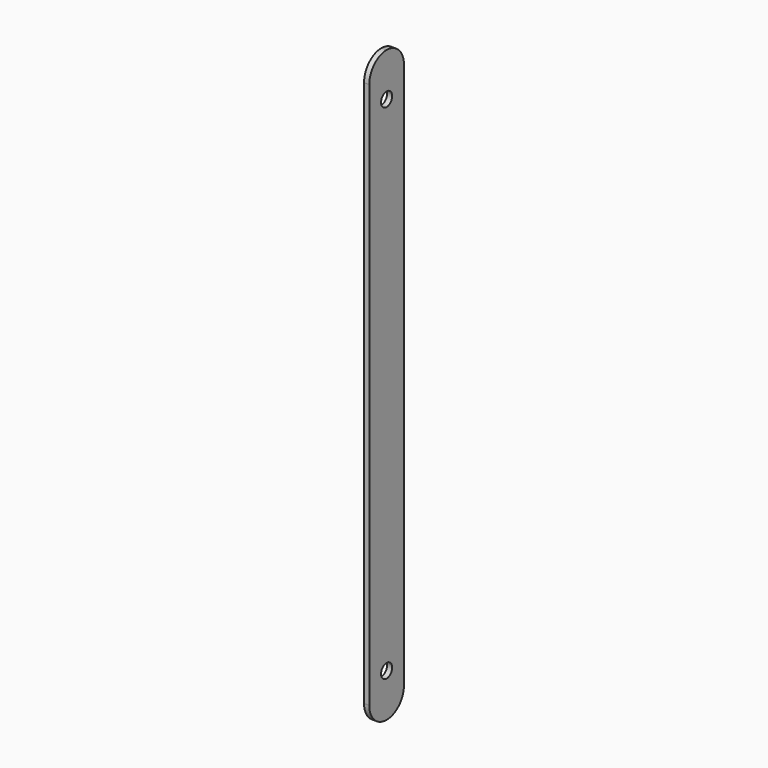
from build123d import *

# Parameters (mm, degrees)
F0_R     = 4
F1_DEPTH = 3


with BuildPart() as f1:
    # F0 (on Right) → F1 (new body)
    with BuildSketch(Plane.YZ):
        with BuildLine():
            Line((-179.574909, 112.911899), (-179.574909, -202.088101))
            ThreePointArc((-179.574909, -202.088101), (-175.913744, -210.926936), (-167.074909, -214.588101))
            ThreePointArc((-167.074909, -214.588101), (-158.236074, -210.926936), (-154.574909, -202.088101))
            Line((-154.574909, -202.088101), (-154.574909, 112.911899))
            ThreePointArc((-154.574909, 112.911899), (-158.236074, 121.750733), (-167.074909, 125.411899))
            ThreePointArc((-167.074909, 125.411899), (-175.913744, 121.750733), (-179.574909, 112.911899))
        make_face()
        with Locations((-167.074909, -189.588101)):
            Circle(F0_R, mode=Mode.SUBTRACT)
        with Locations((-167.074909, 100.411899)):
            Circle(F0_R, mode=Mode.SUBTRACT)
    extrude(amount=F1_DEPTH)


solid = f1.part
